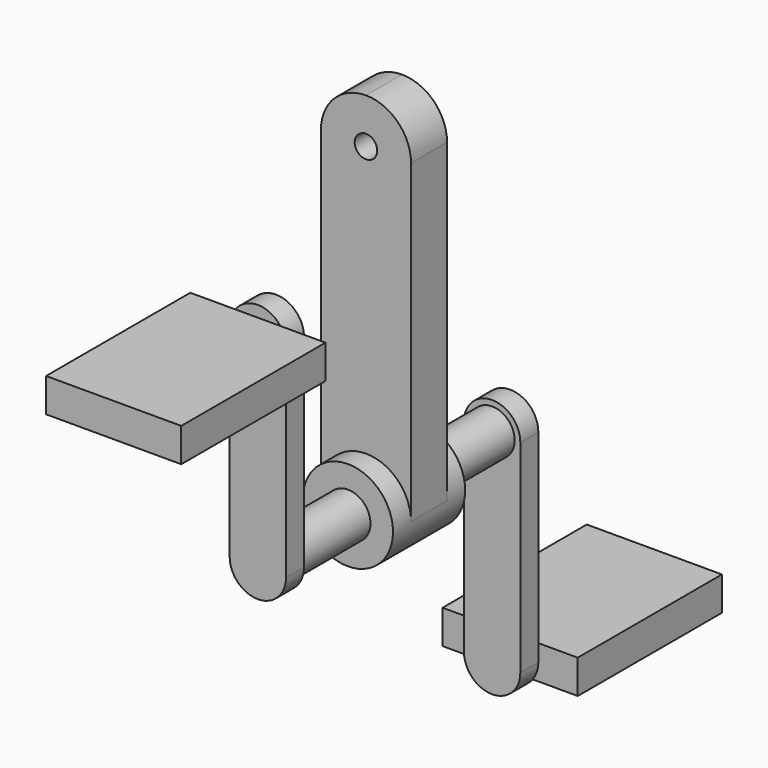
from build123d import *

# Parameters (mm, degrees)
F0_R      = 25.4
F0_R_2    = 12.7
F1_DEPTH  = 25.4
F2_R      = 12.7
F3_DEPTH  = 76.2
F5_DEPTH  = 12.7
F6_W      = 76.2
F6_H      = 19.05
F7_DEPTH  = 101.6
F9_DEPTH  = 12.7
F10_W     = 76.2
F10_H     = 19.05
F11_DEPTH = 101.6
F12_R     = 6.35
F13_DEPTH = 12.7


with BuildPart() as f1:
    # F0 (on Front) → F1 (new body, symmetric)
    with BuildSketch(Plane.XZ):
        Circle(F0_R)
        Circle(F0_R_2, mode=Mode.SUBTRACT)
    extrude(amount=F1_DEPTH, both=True)

    # F12 (on Front) → F13 (join, symmetric)
    with BuildSketch(Plane.XZ):
        with BuildLine():
            Line((-25.4, 177.8), (-25.4, 0))
            Line((-25.4, 0), (0, 0))
            Line((0, 0), (25.4, 0))
            Line((25.4, 0), (25.4, 177.8))
            ThreePointArc((25.4, 177.8), (17.9605122421, 195.7605122421), (0, 203.2))
            ThreePointArc((0, 203.2), (-17.9605122421, 195.7605122421), (-25.4, 177.8))
        make_face()
        with Locations((0, 177.8)):
            Circle(F12_R, mode=Mode.SUBTRACT)
    extrude(amount=F13_DEPTH, both=True)


with BuildPart() as f3:
    # F2 (on Front) → F3 (new body, symmetric)
    with BuildSketch(Plane.XZ):
        Circle(F2_R)
    extrude(amount=F3_DEPTH, both=True)

    # F4 (on face) → F5 (join)
    with BuildSketch(Plane.XZ.offset(76.2)):
        with BuildLine():
            Line((-15.875, 114.3), (-15.875, 0))
            ThreePointArc((-15.875, 0), (0, -15.875), (15.875, 0))
            Line((15.875, 0), (15.875, 114.3))
            ThreePointArc((15.875, 114.3), (0, 130.175), (-15.875, 114.3))
        make_face()
    extrude(amount=F5_DEPTH)

    # F6 (on face) → F7 (join)
    with BuildSketch(Plane.XZ.offset(88.9)):
        with Locations((0, 114.3)):
            Rectangle(F6_W, F6_H)
    extrude(amount=F7_DEPTH)

    # F8 (on face) → F9 (join)
    with BuildSketch(Plane(origin=(0, 76.2, 0), x_dir=(-1, 0, 0), z_dir=(0, 1, 0))):
        with BuildLine():
            Line((15.875, -114.3), (15.875, 0))
            ThreePointArc((15.875, 0), (0, 15.875), (-15.875, 0))
            Line((-15.875, 0), (-15.875, -114.3))
            ThreePointArc((-15.875, -114.3), (0, -130.175), (15.875, -114.3))
        make_face()
    extrude(amount=F9_DEPTH)

    # F10 (on face) → F11 (join)
    with BuildSketch(Plane(origin=(0, 88.9, 0), x_dir=(-1, 0, 0), z_dir=(0, 1, 0))):
        with Locations((0, -114.3)):
            Rectangle(F10_W, F10_H)
    extrude(amount=F11_DEPTH)


solid = Compound([f1.part, f3.part])
